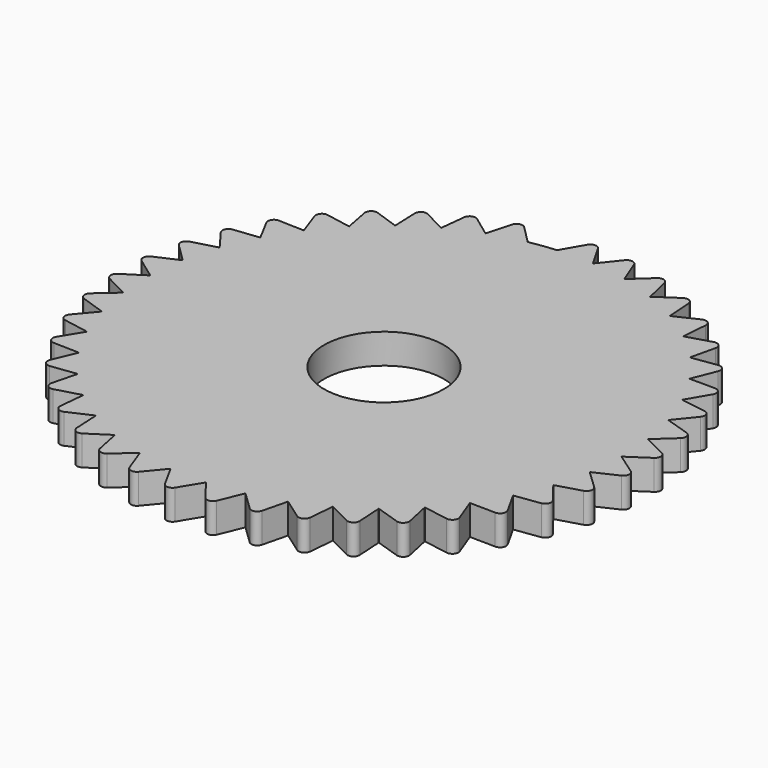
from build123d import *

# Parameters (mm, degrees)
F0_R     = 10
F1_DEPTH = 2.5


with BuildPart() as f1:
    # F0 (on Top) → F1 (new body, symmetric)
    with BuildSketch(Plane.XY):
        with BuildLine():
            Line((5.6798435999, 43.2204847977), (3.0157020505, 39.8861572622))
            ThreePointArc((3.0157020505, 39.8861572622), (5.9986702222, 39.547641593), (8.9478482895, 38.9863567288))
            Line((8.9478482895, 38.9863567288), (7.3923067138, 42.9607347576))
            ThreePointArc((7.3923067138, 42.9607347576), (6.6110585346, 43.5849552976), (5.6798435999, 43.2204847977))
        make_face()
        with BuildLine():
            Line((12.0972463534, 41.8799183396), (8.9631951923, 38.9828312459))
            ThreePointArc((8.9631951923, 38.9828312459), (11.861662999, 38.2007977783), (14.693314859, 37.203581796))
            Line((14.693314859, 37.203581796), (13.7513894194, 41.3662932652))
            ThreePointArc((13.7513894194, 41.3662932652), (13.0725886739, 42.1006157746), (12.0972463534, 41.8799183396))
        make_face()
        with BuildLine():
            Line((18.2410345524, 39.5921152242), (14.707959499, 37.1977946574))
            ThreePointArc((14.707959499, 37.1977946574), (17.4563696269, 35.9899313621), (20.1064492033, 34.5793392134))
            Line((20.1064492033, 34.5793392134), (19.7994442944, 38.8362322464))
            ThreePointArc((19.7994442944, 38.8362322464), (19.2384440437, 39.6640478773), (18.2410345524, 39.5921152242))
        make_face()
        with BuildLine():
            Line((29.1612600103, 32.402034567), (25.0770872772, 31.1631143131))
            ThreePointArc((25.0770872772, 31.1631143131), (27.3436920809, 29.1945629079), (29.4562717134, 27.061560501))
            Line((29.4562717134, 27.061560501), (30.4254216668, 31.2180179682))
            ThreePointArc((30.4254216668, 31.2180179682), (30.1351369895, 32.174958304), (29.1612600103, 32.402034567))
        make_face()
        with BuildLine():
            Line((33.6907044795, 27.6623816969), (29.4669226423, 27.0499624767))
            ThreePointArc((29.4669226423, 27.0499624767), (31.4126772352, 24.7637579724), (33.1814863382, 22.3380608914))
            Line((33.1814863382, 22.3380608914), (34.7630066544, 26.3021728725))
            ThreePointArc((34.7630066544, 26.3021728725), (34.6195140324, 27.2918242593), (33.6907044795, 27.6623816969))
        make_face()
        with BuildLine():
            Line((40.3783409567, 16.4274316633), (36.1629373011, 17.095086012))
            ThreePointArc((36.1629373011, 17.095086012), (37.3432170599, 14.3347179818), (38.3131449983, 11.493603453))
            Line((38.3131449983, 11.493603453), (40.9990524531, 14.8104229317))
            ThreePointArc((40.9990524531, 14.8104229317), (41.1554869181, 15.7981112722), (40.3783409567, 16.4274316633))
        make_face()
        with BuildLine():
            Line((23.9722484848, 36.4088208001), (20.1200603493, 34.5714213121))
            ThreePointArc((20.1200603493, 34.5714213121), (22.656249477, 32.9650475449), (25.0648174811, 31.1729838906))
            Line((25.0648174811, 31.1729838906), (25.3996769153, 35.42777642))
            ThreePointArc((25.3996769153, 35.42777642), (24.9691658185, 36.3303617043), (23.9722484848, 36.4088208001))
        make_face()
        with BuildLine():
            Line((37.4581352782, 22.2970632808), (33.1902774982, 22.3249967435))
            ThreePointArc((33.1902774982, 22.3249967435), (34.7711729578, 19.7728483314), (36.1562047479, 17.1093207998))
            Line((36.1562047479, 17.1093207998), (38.3143247262, 20.7914273257))
            ThreePointArc((38.3143247262, 20.7914273257), (38.3208696642, 21.7914059074), (37.4581352782, 22.2970632808))
        make_face()
        with BuildLine():
            Line((42.3852725355, 10.1862457049), (38.3176666684, 11.4785199868))
            ThreePointArc((38.3176666684, 11.4785199868), (39.0706352528, 8.5723661226), (39.6035215868, 5.6179246988))
            Line((39.6035215868, 5.6179246988), (42.7564668771, 8.4944375713))
            ThreePointArc((42.7564668771, 8.4944375713), (43.059252647, 9.4474962147), (42.3852725355, 10.1862457049))
        make_face()
        with BuildLine():
            Line((43.433537396, 3.7146680525), (39.605730103, 5.6023337107))
            ThreePointArc((39.605730103, 5.6023337107), (39.9143569295, 2.6161251692), (39.9981488784, -0.3848198287))
            Line((39.9981488784, -0.3848198287), (43.5468189388, 1.9863256986))
            ThreePointArc((43.5468189388, 1.9863256986), (43.989107629, 2.8831984402), (43.433537396, 3.7146680525))
        make_face()
        with BuildLine():
            Line((43.499425967, -2.8409276661), (39.9979942887, -0.400565703))
            ThreePointArc((39.9979942887, -0.400565703), (39.8552988603, -3.3992870949), (39.4881012244, -6.3788605321))
            Line((39.4881012244, -6.3788605321), (43.3522325181, -4.5667127305))
            ThreePointArc((43.3522325181, -4.5667127305), (43.9240204783, -3.746311287), (43.499425967, -2.8409276661))
        make_face()
        with BuildLine():
            Line((42.5814479863, -9.332267509), (39.4855870253, -6.3944051536))
            ThreePointArc((39.4855870253, -6.3944051536), (38.8947968159, -9.3378145542), (38.0849148422, -12.228624676))
            Line((38.0849148422, -12.228624676), (42.1771087553, -11.0164616149))
            ThreePointArc((42.1771087553, -11.0164616149), (42.865463331, -10.2910872439), (42.5814479863, -9.332267509))
        make_face()
        with BuildLine():
            Line((40.7003662065, -15.6125308687), (38.0800978995, -12.2436164577))
            ThreePointArc((38.0800978995, -12.2436164577), (37.054575355, -15.0651400677), (35.8203268894, -17.8018027609))
            Line((35.8203268894, -17.8018027609), (40.048026506, -17.2170410479))
            ThreePointArc((40.048026506, -17.2170410479), (40.8373785481, -16.6031002092), (40.7003662065, -15.6125308687))
        make_face()
        with BuildLine():
            Line((37.8987267855, -21.5396712487), (35.8133161525, -17.8159026199))
            ThreePointArc((35.8133161525, -17.8159026199), (34.3762564601, -20.4517234431), (32.745557636, -22.9723410889))
            Line((32.745557636, -22.9723410889), (37.0131411829, -23.0282068178))
            ThreePointArc((37.0131411829, -23.0282068178), (37.88563719, -22.5395855763), (37.8987267855, -21.5396712487))
        make_face()
        with BuildLine():
            Line((34.2398969807, -26.97962906), (32.7365116732, -22.9852301157))
            ThreePointArc((32.7365116732, -22.9852301157), (30.9204181345, -25.3757313665), (28.9301519682, -27.6232928359))
            Line((28.9301519682, -27.6232928359), (33.1410955806, -28.31852244))
            ThreePointArc((33.1410955806, -28.31852244), (34.0770015073, -27.9662723921), (34.2398969807, -26.97962906))
        make_face()
        with BuildLine():
            Line((29.8066319132, -31.8093637701), (28.9192753802, -27.6346795075))
            ThreePointArc((28.9192753802, -27.6346795075), (26.7652242544, -29.7257930191), (24.4604064274, -31.6494631456))
            Line((24.4604064274, -31.6494631456), (28.5194673181, -32.9683319772))
            ThreePointArc((28.5194673181, -32.9683319772), (29.4976149188, -32.7604202864), (29.8066319132, -31.8093637701))
        make_face()
        with BuildLine():
            Line((24.699202819, -35.919636824), (24.4479452201, -31.6590899192))
            ThreePointArc((24.4479452201, -31.6590899192), (22.0046566638, -33.4035190527), (19.4374173622, -34.9597884188))
            Line((19.4374173622, -34.9597884188), (23.2527880153, -36.8724664077))
            ThreePointArc((23.2527880153, -36.8724664077), (24.2510536254, -36.813595604), (24.699202819, -35.919636824))
        make_face()
        with BuildLine():
            Line((19.0331291228, -39.2174823932), (19.4236533823, -34.9674375567))
            ThreePointArc((19.4236533823, -34.9674375567), (16.7463895015, -36.325726953), (13.9747943393, -37.479395982))
            Line((13.9747943393, -37.479395982), (17.4601790052, -39.9426223297))
            ThreePointArc((17.4601790052, -39.9426223297), (18.4559839328, -40.0341239484), (19.0331291228, -39.2174823932))
        make_face()
        with BuildLine():
            Line((12.936565628, -41.6283100692), (13.9600388993, -37.4848944767))
            ThreePointArc((13.9600388993, -37.4848944767), (11.1093538353, -38.4263224543), (8.1960905311, -39.151297552))
            Line((8.1960905311, -39.151297552), (11.2726570571, -42.1093592013))
            ThreePointArc((11.2726570571, -42.1093592013), (12.2434782655, -42.3491636659), (12.936565628, -41.6283100692))
        make_face()
        with BuildLine():
            ThreePointArc((8.1806773684, -39.154521039), (5.2210476888, -39.657794455), (2.2320082001, -39.9376781923))
            Line((2.2320082001, -39.9376781923), (4.8301710494, -43.3236699403))
            ThreePointArc((4.8301710494, -43.3236699403), (5.754050582, -43.7063533727), (6.5474039222, -43.0975919437))
            Line((6.5474039222, -43.0975919437), (8.1806773684, -39.154521039))
        make_face()
        with BuildLine():
            ThreePointArc((2.2162859283, -39.938553763), (-0.7853476984, -39.9922896193), (-3.7825575146, -39.8207516083))
            Line((-3.7825575146, -39.8207516083), (-1.7215633822, -43.5580893634))
            ThreePointArc((-1.7215633822, -43.5580893634), (-0.8655217593, -44.0749962601), (0.010153556, -43.5920959163))
            Line((0.010153556, -43.5920959163), (2.2162859283, -39.938553763))
        make_face()
        with BuildLine():
            ThreePointArc((-3.7982332904, -39.8192594591), (-6.773980154, -39.4222423623), (-9.7115696447, -38.803162436))
            Line((-9.7115696447, -38.803162436), (-8.2343596305, -42.8073153905))
            ThreePointArc((-8.2343596305, -42.8073153905), (-7.4655177984, -43.4467543925), (-6.5273264625, -43.1006373354))
            Line((-6.5273264625, -43.1006373354), (-3.7982332904, -39.8192594591))
        make_face()
        with BuildLine():
            ThreePointArc((-9.726844371, -38.7993363163), (-12.6093992659, -37.9605459675), (-15.4209262661, -36.9079264264))
            Line((-15.4209262661, -36.9079264264), (-14.5609117884, -41.0883289677))
            ThreePointArc((-14.5609117884, -41.0883289677), (-13.8966593505, -41.8358372945), (-12.917171931, -41.6343319722))
            Line((-12.917171931, -41.6343319722), (-9.726844371, -38.7993363163))
        make_face()
        with BuildLine():
            ThreePointArc((-15.4354544604, -36.9018528749), (-18.1596199896, -35.6402609675), (-20.7814936055, -34.1779098765))
            Line((-20.7814936055, -34.1779098765), (-20.5581264033, -38.4400099929))
            ThreePointArc((-20.5581264033, -38.4400099929), (-20.0134873683, -39.2786805608), (-19.0148578335, -39.2263446046))
            Line((-19.0148578335, -39.2263446046), (-15.4354544604, -36.9018528749))
        make_face()
        with BuildLine():
            ThreePointArc((-20.7949466702, -34.1697262644), (-23.2991078747, -32.5138673837), (-25.6720267777, -30.6748600832))
            Line((-25.6720267777, -30.6748600832), (-26.0903589526, -34.9222579337))
            ThreePointArc((-26.0903589526, -34.9222579337), (-25.6776519228, -35.8331217587), (-24.6824671961, -35.931138899))
            Line((-24.6824671961, -35.931138899), (-20.7949466702, -34.1697262644))
        make_face()
        with BuildLine():
            ThreePointArc((-25.6841004325, -30.6647515068), (-27.9116183937, -28.652077737), (-29.981912093, -26.4780087478))
            Line((-29.981912093, -26.4780087478), (-31.0324818412, -30.6146370261))
            ThreePointArc((-31.0324818412, -30.6146370261), (-30.7610413913, -31.5770922626), (-29.7918104816, -31.8232455556))
            Line((-29.7918104816, -31.8232455556), (-25.6841004325, -30.6647515068))
        make_face()
        with BuildLine():
            ThreePointArc((-29.9923332569, -26.4662038421), (-31.8928261509, -24.1422376781), (-33.6136689086, -21.6822799194))
            Line((-33.6136689086, -21.6822799194), (-35.2727145272, -25.6145766967))
            ThreePointArc((-35.2727145272, -25.6145766967), (-35.1486800757, -26.6068546088), (-34.2273249705, -26.995576579))
            Line((-34.2273249705, -26.995576579), (-29.9923332569, -26.4662038421))
        make_face()
        with BuildLine():
            ThreePointArc((-33.6222018765, -21.6690456868), (-35.1526845065, -19.0863504104), (-36.4851544381, -16.3961430108))
            Line((-36.4851544381, -16.3961430108), (-38.7151517654, -20.0351679117))
            ThreePointArc((-38.7151517654, -20.0351679117), (-38.7413287137, -21.0348252367), (-37.8886885493, -21.5573238014))
            Line((-37.8886885493, -21.5573238014), (-33.6222018765, -21.6690456868))
        make_face()
        with BuildLine():
            ThreePointArc((-36.4916062121, -16.3817787821), (-37.6174622437, -13.5987695892), (-38.5314216504, -10.7391594455))
            Line((-38.5314216504, -10.7391594455), (-41.2819327846, -14.0026052946))
            ThreePointArc((-41.2819327846, -14.0026052946), (-41.4577290645, -14.9870318627), (-40.6930887883, -15.6314891911))
            Line((-40.6930887883, -15.6314891911), (-36.4916062121, -16.3817787821))
        make_face()
        with BuildLine():
            ThreePointArc((-38.5356463048, -10.7239901096), (-39.2314112161, -7.8036128806), (-39.7061882369, -4.8392784272))
            Line((-39.7061882369, -4.8392784272), (-42.9150023361, -7.6533328663))
            ThreePointArc((-42.9150023361, -7.6533328663), (-43.2364418014, -8.6002629958), (-42.5770959863, -9.3521028033))
            Line((-42.5770959863, -9.3521028033), (-38.5356463048, -10.7239901096))
        make_face()
        with BuildLine():
            ThreePointArc((-39.7080902187, -4.823647083), (-39.9580272544, -1.8319546775), (-39.9828834203, 1.1700570051))
            Line((-39.9828834203, 1.1700570051), (-43.5774237828, -1.1309579648))
            ThreePointArc((-43.5774237828, -1.1309579648), (-44.0372361413, -2.0189740654), (-43.4980978184, -2.8611912991))
            Line((-43.4980978184, -2.8611912991), (-39.7080902187, -4.823647083))
        make_face()
        with BuildLine():
            ThreePointArc((-39.9824197108, 1.1857968091), (-39.7808758147, 4.1811385307), (-39.3552489312, 7.1529281813))
            Line((-39.3552489312, 7.1529281813), (-43.2542145294, 5.4169968539))
            ThreePointArc((-43.2542145294, 5.4169968539), (-43.8419997816, 4.6079798596), (-43.4352631386, 3.6944344019))
            Line((-43.4352631386, 3.6944344019), (-39.9824197108, 1.1857968091))
        make_face()
        with BuildLine():
            ThreePointArc((-37.8323701981, 12.9889093151), (-36.751648406, 15.7897542554), (-35.4639070598, 18.501656576))
            Line((-35.4639070598, 18.501656576), (-39.7022727787, 18.0000129354))
            ThreePointArc((-39.7022727787, 18.0000129354), (-40.5035265913, 17.4016883349), (-40.3859891939, 16.4086198779))
            Line((-40.3859891939, 16.4086198779), (-37.8323701981, 12.9889093151))
        make_face()
        with BuildLine():
            Line((-0.8660254038, 43.5834937731), (-3, 39.8873413504))
            ThreePointArc((-3, 39.8873413504), (-5.2210476888, 39.657794455), (-7.4258261211, 39.3046702876))
            ThreePointArc((-7.4258261211, 39.3046702876), (-10.3527618041, 38.6370330516), (-13.2213810788, 37.751756017))
            ThreePointArc((-13.2213810788, 37.751756017), (-13.2288116109, 37.7491528827), (-13.2362416304, 37.7465482859))
            ThreePointArc((-13.2362416304, 37.7465482859), (-16.0299533241, 36.6475182847), (-18.7333693731, 35.3420552873))
            ThreePointArc((-18.7333693731, 35.3420552873), (-18.7403254899, 35.338367259), (-18.7472808807, 35.3346778615))
            ThreePointArc((-18.7472808807, 35.3346778615), (-21.3445806366, 33.8291128682), (-23.8216478109, 32.1329907661))
            ThreePointArc((-23.8216478109, 32.1329907661), (-23.8279721797, 32.1283012592), (-23.8342956253, 32.1236105076))
            ThreePointArc((-23.8342956253, 32.1236105076), (-26.1764379243, 30.2455632712), (-28.371130116, 28.197144819))
            ThreePointArc((-28.371130116, 28.197144819), (-28.3766796926, 28.1915599005), (-28.3822281697, 28.1859738899))
            ThreePointArc((-28.3822281697, 28.1859738899), (-30.416238624, 25.9779219332), (-32.2789164597, 23.6235380963))
            ThreePointArc((-32.2789164597, 23.6235380963), (-32.2835657243, 23.6171840854), (-32.2882137381, 23.6108291596))
            ThreePointArc((-32.2882137381, 23.6108291596), (-33.9680872611, 21.122714026), (-35.456620842, 18.5156160705))
            ThreePointArc((-35.456620842, 18.5156160705), (-35.4602646378, 18.5086366818), (-35.4639070598, 18.501656576))
            ThreePointArc((-35.4639070598, 18.501656576), (-36.751648406, 15.7897542554), (-37.8323701981, 12.9889093151))
            ThreePointArc((-37.8323701981, 12.9889093151), (-37.8349261101, 12.9814624078), (-37.8374805562, 12.9740149976))
            ThreePointArc((-37.8374805562, 12.9740149976), (-38.7039636944, 10.0996630806), (-39.3524300183, 7.1684204434))
            ThreePointArc((-39.3524300183, 7.1684204434), (-39.3538402371, 7.1606744511), (-39.3552489312, 7.1529281813))
            ThreePointArc((-39.3552489312, 7.1529281813), (-39.7808758147, 4.1811385307), (-39.9824197108, 1.1857968091))
            ThreePointArc((-39.9824197108, 1.1857968091), (-39.9826523401, 1.1779269299), (-39.9828834203, 1.1700570051))
            ThreePointArc((-39.9828834203, 1.1700570051), (-39.9580272544, -1.8319546775), (-39.7080902187, -4.823647083))
            ThreePointArc((-39.7080902187, -4.823647083), (-39.707139997, -4.8314628487), (-39.7061882369, -4.8392784272))
            ThreePointArc((-39.7061882369, -4.8392784272), (-39.2314112161, -7.8036128806), (-38.5356463048, -10.7239901096))
            ThreePointArc((-38.5356463048, -10.7239901096), (-38.5335347241, -10.7315749854), (-38.5314216504, -10.7391594455))
            ThreePointArc((-38.5314216504, -10.7391594455), (-37.6174622437, -13.5987695892), (-36.4916062121, -16.3817787821))
            ThreePointArc((-36.4916062121, -16.3817787821), (-36.4883810319, -16.3889612139), (-36.4851544381, -16.3961430108))
            ThreePointArc((-36.4851544381, -16.3961430108), (-35.1526845065, -19.0863504104), (-33.6222018765, -21.6690456868))
            ThreePointArc((-33.6222018765, -21.6690456868), (-33.6179360438, -21.675663223), (-33.6136689086, -21.6822799194))
            ThreePointArc((-33.6136689086, -21.6822799194), (-31.8928261509, -24.1422376781), (-29.9923332569, -26.4662038421))
            ThreePointArc((-29.9923332569, -26.4662038421), (-29.9871232558, -26.4721068077), (-29.981912093, -26.4780087478))
            ThreePointArc((-29.981912093, -26.4780087478), (-27.9116183937, -28.652077737), (-25.6841004325, -30.6647515068))
            ThreePointArc((-25.6841004325, -30.6647515068), (-25.6780641025, -30.6698063891), (-25.6720267777, -30.6748600832))
            ThreePointArc((-25.6720267777, -30.6748600832), (-23.2991078747, -32.5138673837), (-20.7949466702, -34.1697262644))
            ThreePointArc((-20.7949466702, -34.1697262644), (-20.7882205405, -34.1738187324), (-20.7814936055, -34.1779098765))
            ThreePointArc((-20.7814936055, -34.1779098765), (-18.1596199896, -35.6402609675), (-15.4354544604, -36.9018528749))
            ThreePointArc((-15.4354544604, -36.9018528749), (-15.4281906621, -36.9048903656), (-15.4209262661, -36.9079264264))
            ThreePointArc((-15.4209262661, -36.9079264264), (-12.6093992659, -37.9605459675), (-9.726844371, -38.7993363163))
            ThreePointArc((-9.726844371, -38.7993363163), (-9.7192071961, -38.8012501278), (-9.7115696447, -38.803162436))
            ThreePointArc((-9.7115696447, -38.803162436), (-6.773980154, -39.4222423623), (-3.7982332904, -39.8192594591))
            ThreePointArc((-3.7982332904, -39.8192594591), (-3.7903954759, -39.8200063051), (-3.7825575146, -39.8207516083))
            ThreePointArc((-3.7825575146, -39.8207516083), (-0.7853476984, -39.9922896193), (2.2162859283, -39.938553763))
            ThreePointArc((2.2162859283, -39.938553763), (2.2241471073, -39.9381167514), (2.2320082001, -39.9376781923))
            ThreePointArc((2.2320082001, -39.9376781923), (5.2210476888, -39.657794455), (8.1806773684, -39.154521039))
            ThreePointArc((8.1806773684, -39.154521039), (8.1883841084, -39.152910054), (8.1960905311, -39.151297552))
            ThreePointArc((8.1960905311, -39.151297552), (11.1093538353, -38.4263224543), (13.9600388993, -37.4848944767))
            ThreePointArc((13.9600388993, -37.4848944767), (13.9674168899, -37.4821459554), (13.9747943393, -37.479395982))
            ThreePointArc((13.9747943393, -37.479395982), (16.7463895015, -36.325726953), (19.4236533823, -34.9674375567))
            ThreePointArc((19.4236533823, -34.9674375567), (19.4305357487, -34.9636136651), (19.4374173622, -34.9597884188))
            ThreePointArc((19.4374173622, -34.9597884188), (22.0046566638, -33.4035190527), (24.4479452201, -31.6590899192))
            ThreePointArc((24.4479452201, -31.6590899192), (24.4541762975, -31.6542771456), (24.4604064274, -31.6494631456))
            ThreePointArc((24.4604064274, -31.6494631456), (26.7652242544, -29.7257930191), (28.9192753802, -27.6346795075))
            ThreePointArc((28.9192753802, -27.6346795075), (28.9247142345, -27.6289867069), (28.9301519682, -27.6232928359))
            ThreePointArc((28.9301519682, -27.6232928359), (30.9204181345, -25.3757313665), (32.7365116732, -22.9852301157))
            ThreePointArc((32.7365116732, -22.9852301157), (32.7410352888, -22.9787860475), (32.745557636, -22.9723410889))
            ThreePointArc((32.745557636, -22.9723410889), (34.3762564601, -20.4517234431), (35.8133161525, -17.8159026199))
            ThreePointArc((35.8133161525, -17.8159026199), (35.8168222147, -17.8088530354), (35.8203268894, -17.8018027609))
            ThreePointArc((35.8203268894, -17.8018027609), (37.054575355, -15.0651400677), (38.0800978995, -12.2436164577))
            ThreePointArc((38.0800978995, -12.2436164577), (38.0825071086, -12.2361208039), (38.0849148422, -12.228624676))
            ThreePointArc((38.0849148422, -12.228624676), (38.8947968159, -9.3378145542), (39.4855870253, -6.3944051536))
            ThreePointArc((39.4855870253, -6.3944051536), (39.4868448898, -6.3866329666), (39.4881012244, -6.3788605321))
            ThreePointArc((39.4881012244, -6.3788605321), (39.8552988603, -3.3992870949), (39.9979942887, -0.400565703))
            ThreePointArc((39.9979942887, -0.400565703), (39.9980723584, -0.3926927735), (39.9981488784, -0.3848198287))
            ThreePointArc((39.9981488784, -0.3848198287), (39.9143569295, 2.6161251692), (39.605730103, 5.6023337107))
            ThreePointArc((39.605730103, 5.6023337107), (39.6046266121, 5.6101293135), (39.6035215868, 5.6179246988))
            ThreePointArc((39.6035215868, 5.6179246988), (39.0706352528, 8.5723661226), (38.3176666684, 11.4785199868))
            ThreePointArc((38.3176666684, 11.4785199868), (38.3154065756, 11.4860619424), (38.3131449983, 11.493603453))
            ThreePointArc((38.3131449983, 11.493603453), (37.3432170599, 14.3347179818), (36.1629373011, 17.095086012))
            ThreePointArc((36.1629373011, 17.095086012), (36.1595717249, 17.1022037372), (36.1562047479, 17.1093207998))
            ThreePointArc((36.1562047479, 17.1093207998), (34.7711729578, 19.7728483314), (33.1902774982, 22.3249967435))
            ThreePointArc((33.1902774982, 22.3249967435), (33.185882561, 22.33152925), (33.1814863382, 22.3380608914))
            ThreePointArc((33.1814863382, 22.3380608914), (31.4126772352, 24.7637579724), (29.4669226423, 27.0499624767))
            ThreePointArc((29.4669226423, 27.0499624767), (29.4615977486, 27.055762013), (29.4562717134, 27.061560501))
            ThreePointArc((29.4562717134, 27.061560501), (27.3436920809, 29.1945629079), (25.0770872772, 31.1631143131))
            ThreePointArc((25.0770872772, 31.1631143131), (25.0709528648, 31.1680497056), (25.0648174811, 31.1729838906))
            ThreePointArc((25.0648174811, 31.1729838906), (22.656249477, 32.9650475449), (20.1200603493, 34.5714213121))
            ThreePointArc((20.1200603493, 34.5714213121), (20.113255166, 34.5753809325), (20.1064492033, 34.5793392134))
            ThreePointArc((20.1064492033, 34.5793392134), (17.4563696269, 35.9899313621), (14.707959499, 37.1977946574))
            ThreePointArc((14.707959499, 37.1977946574), (14.7006374638, 37.2006889474), (14.693314859, 37.203581796))
            ThreePointArc((14.693314859, 37.203581796), (11.861662999, 38.2007977783), (8.9631951923, 38.9828312459))
            ThreePointArc((8.9631951923, 38.9828312459), (8.9555219143, 38.9845947426), (8.9478482895, 38.9863567288))
            ThreePointArc((8.9478482895, 38.9863567288), (5.9986702222, 39.547641593), (3.0157020505, 39.8861572622))
            ThreePointArc((3.0157020505, 39.8861572622), (3.0078510835, 39.8867500789), (3, 39.8873413504))
            Line((3, 39.8873413504), (0.8660254038, 43.5834937731))
            ThreePointArc((0.8660254038, 43.5834937731), (0, 44.0834937731), (-0.8660254038, 43.5834937731))
        make_face()
        Circle(F0_R, mode=Mode.SUBTRACT)
        with BuildLine():
            ThreePointArc((-35.456620842, 18.5156160705), (-33.9680872611, 21.122714026), (-32.2882137381, 23.6108291596))
            Line((-32.2882137381, 23.6108291596), (-36.5538778171, 23.7504725427))
            ThreePointArc((-36.5538778171, 23.7504725427), (-37.4357990814, 23.2790758059), (-37.4685181642, 22.2796112184))
            Line((-37.4685181642, 22.2796112184), (-35.456620842, 18.5156160705))
        make_face()
        with BuildLine():
            ThreePointArc((-39.3524300183, 7.1684204434), (-38.7039636944, 10.0996630806), (-37.8374805562, 12.9740149976))
            Line((-37.8374805562, 12.9740149976), (-41.9526848968, 11.8424304693))
            ThreePointArc((-41.9526848968, 11.8424304693), (-42.6551485629, 11.1307108631), (-42.3900131366, 10.1664996799))
            Line((-42.3900131366, 10.1664996799), (-39.3524300183, 7.1684204434))
        make_face()
        with BuildLine():
            ThreePointArc((-32.2789164597, 23.6235380963), (-30.416238624, 25.9779219332), (-28.3822281697, 28.1859738899))
            Line((-28.3822281697, 28.1859738899), (-32.5787101584, 28.9637458537))
            ThreePointArc((-32.5787101584, 28.9637458537), (-33.5213516495, 28.6299389945), (-33.703587175, 27.6466840869))
            Line((-33.703587175, 27.6466840869), (-32.2789164597, 23.6235380963))
        make_face()
        with BuildLine():
            ThreePointArc((-28.371130116, 28.197144819), (-26.1764379243, 30.2455632712), (-23.8342956253, 32.1236105076))
            Line((-23.8342956253, 32.1236105076), (-27.8666798283, 33.5219194679))
            ThreePointArc((-27.8666798283, 33.5219194679), (-28.848720956, 33.3332525032), (-29.1763511355, 32.3884464568))
            Line((-29.1763511355, 32.3884464568), (-28.371130116, 28.197144819))
        make_face()
        with BuildLine():
            ThreePointArc((-23.8216478109, 32.1329907661), (-21.3445806366, 33.8291128682), (-18.7472808807, 35.3346778615))
            Line((-18.7472808807, 35.3346778615), (-22.5243631533, 37.3218969776))
            ThreePointArc((-22.5243631533, 37.3218969776), (-23.5235921896, 37.2826371618), (-23.9892067099, 36.3976495243))
            Line((-23.9892067099, 36.3976495243), (-23.8216478109, 32.1329907661))
        make_face()
        with BuildLine():
            ThreePointArc((-18.7333693731, 35.3420552873), (-16.0299533241, 36.6475182847), (-13.2362416304, 37.7465482859))
            Line((-13.2362416304, 37.7465482859), (-16.6725922266, 40.277730794))
            ThreePointArc((-16.6725922266, 40.277730794), (-17.6664086887, 40.3887661025), (-18.2594763176, 39.583613454))
            Line((-18.2594763176, 39.583613454), (-18.7333693731, 35.3420552873))
        make_face()
        with BuildLine():
            ThreePointArc((-13.2213810788, 37.751756017), (-10.3527618041, 38.6370330516), (-7.4258261211, 39.3046702876))
            Line((-7.4258261211, 39.3046702876), (-10.4437219368, 42.3225661034))
            ThreePointArc((-10.4437219368, 42.3225661034), (-11.4096477631, 42.5813851485), (-12.1167545443, 41.8742783673))
            Line((-12.1167545443, 41.8742783673), (-13.2213810788, 37.751756017))
        make_face()
    extrude(amount=F1_DEPTH, both=True)


solid = f1.part
